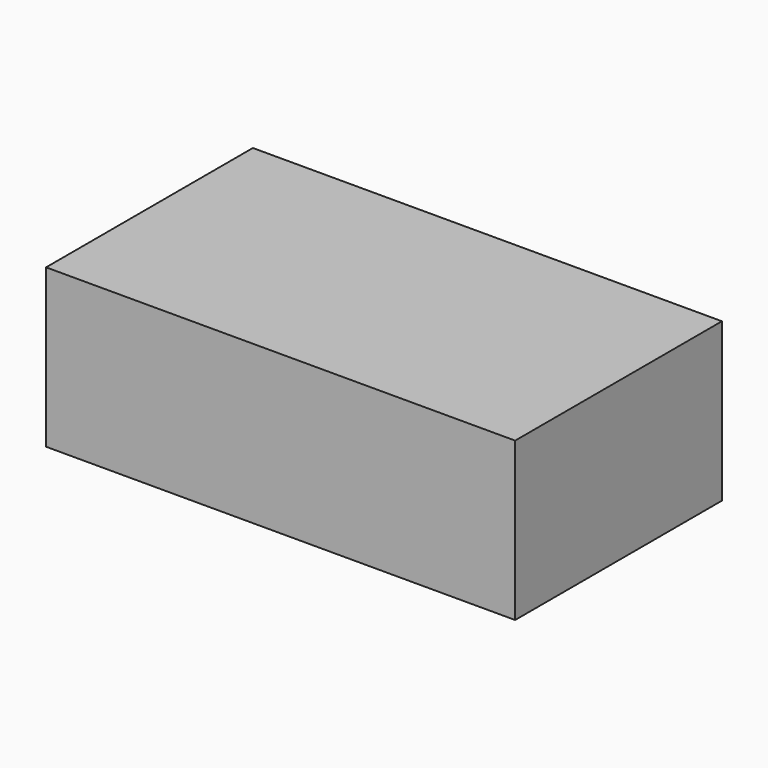
from build123d import *

# Parameters (mm, degrees)
F0_W     = 4900
F0_H     = 2700
F0_W_2   = 4700
F0_H_2   = 2500
F1_DEPTH = 1500
F2_W     = 4900
F2_H     = 2700
F2_W_2   = 4700
F2_H_2   = 2500
F3_DEPTH = 150


with BuildPart() as f1:
    # F0 (on Top) → F1 (new body)
    with BuildSketch(Plane.XY):
        Rectangle(F0_W, F0_H)
        Rectangle(F0_W_2, F0_H_2, mode=Mode.SUBTRACT)
    extrude(amount=F1_DEPTH)

    # F2 (on face) → F3 (join)
    with BuildSketch(Plane.XY.offset(1500)):
        Rectangle(F2_W, F2_H)
        Rectangle(F2_W_2, F2_H_2, mode=Mode.SUBTRACT)
        Rectangle(F2_W_2, F2_H_2)
    extrude(amount=F3_DEPTH)


solid = f1.part
